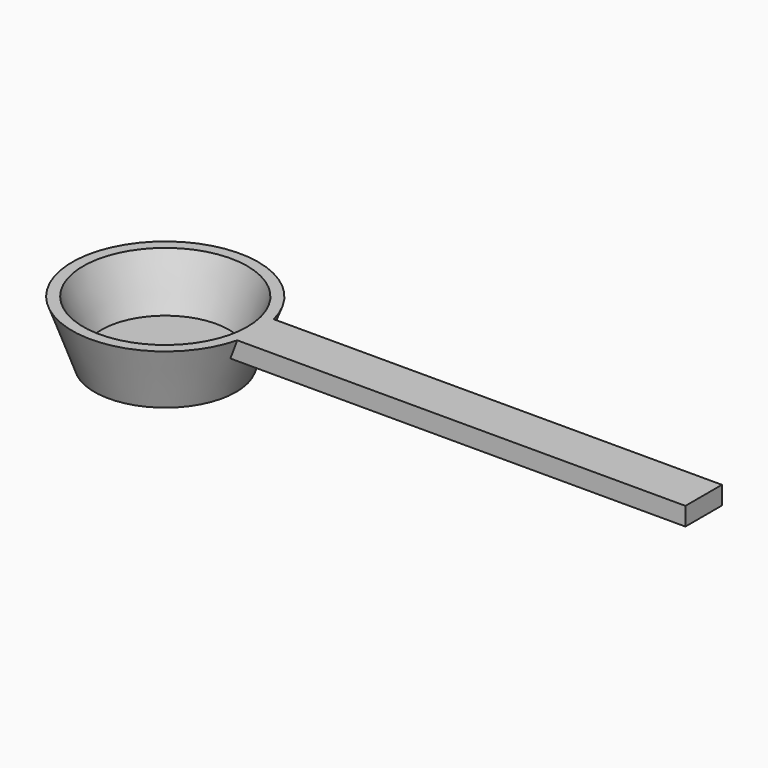
from build123d import *

# Parameters (mm, degrees)
F0_W     = 7
F0_H     = 1.2
F2_W     = 50
F2_H     = 2
F3_DEPTH = 2.5


with BuildPart() as f1:
    # F0 (on Front) → F1 (revolve)
    with BuildSketch(Plane.XZ):
        Polygon((9, 6.694955), (7, 1.2), (7, 0), (7.763236, 0), (10.2, 6.694955), align=None)
        with Locations((3.5, 0.6)):
            Rectangle(F0_W, F0_H)
    revolve(axis=Axis((0, 0, 3.216552), (0, 0, -1)))

    # F2 (on Front) → F3 (join, symmetric)
    with BuildSketch(Plane.XZ):
        with Locations((34, 5.694955)):
            Rectangle(F2_W, F2_H)
    extrude(amount=F3_DEPTH, both=True)


solid = f1.part
